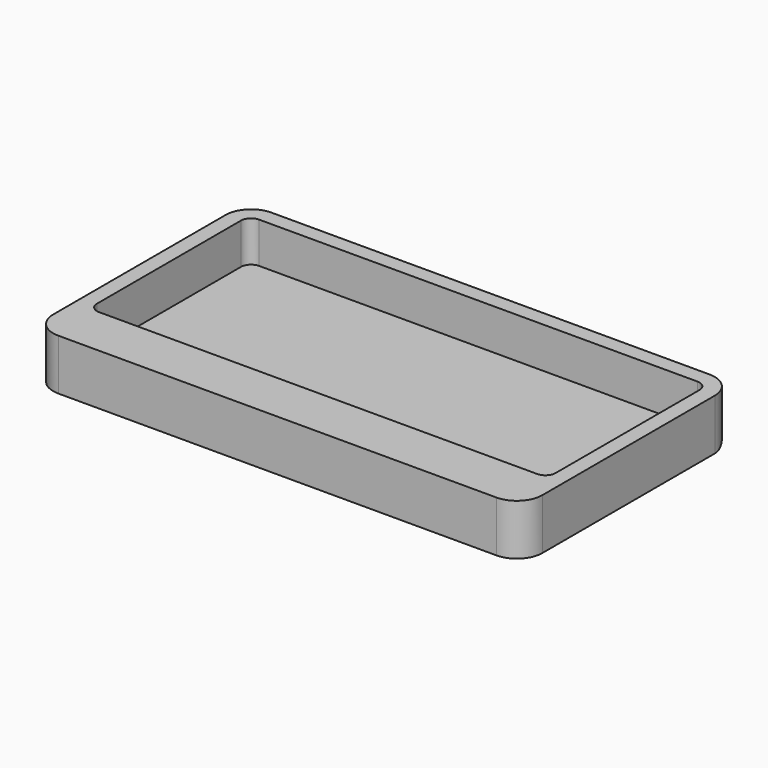
from build123d import *

# Parameters (mm, degrees)
F0_W     = 90
F0_H     = 39.3
F1_DEPTH = 10
F2_DEPTH = 2
F3_R     = 5
F4_R     = 2


with BuildPart() as f1:
    # F0 (on Top) → F1 (new body)
    with BuildSketch(Plane.XY):
        Polygon((-45, -29.65), (45, -29.65), (48, -29.65), (48, 19.65), (48, 22.65), (-48, 22.65), (-48, 19.65), (-48, -29.65), align=None)
        Rectangle(F0_W, F0_H, mode=Mode.SUBTRACT)
    extrude(amount=F1_DEPTH)

    # F0 (on Top) → F2 (join)
    with BuildSketch(Plane.XY):
        Rectangle(F0_W, F0_H)
    extrude(amount=F2_DEPTH)

    # F3
    f3_edges = [f1.edges().sort_by_distance(p)[0] for p in [
        (0, 22.65, 0),
        (-48, 22.65, 5),
        (48, 22.65, 5),
        (-48, -29.65, 5),
        (48, -29.65, 5),
    ]]
    fillet(f3_edges, radius=F3_R)

    # F4
    f4_edges = [f1.edges().sort_by_distance(p)[0] for p in [
        (-45, 19.65, 6),
        (45, 19.65, 6),
        (45, -19.65, 6),
        (-45, -19.65, 6),
    ]]
    fillet(f4_edges, radius=F4_R)


solid = f1.part
